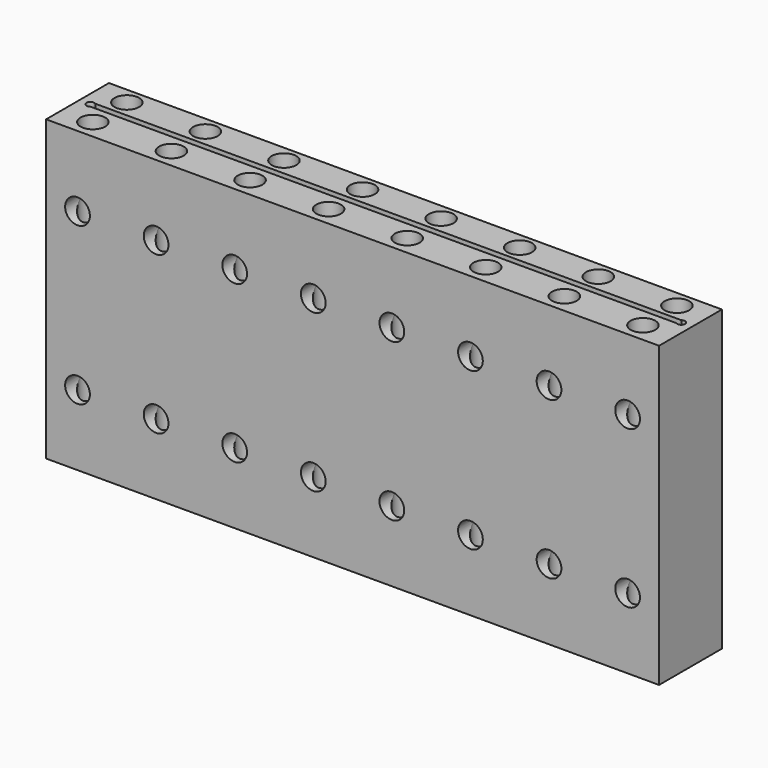
from build123d import *

# Parameters (mm, degrees)
F0_W     = 49.53
F0_H     = 24.13
F0_R     = 0.99949
F1_DEPTH = 6.35
F4_DEPTH = 24.638
F5_R     = 0.99695
F6_DEPTH = 10.16
F8_W     = 78.8969881833
F8_H     = 36.3978110254
F9_DEPTH = 12.065


with BuildPart() as f1:
    # F0 (on Front) → F1 (new body)
    with BuildSketch(Plane.XZ):
        with Locations((24.765, 12.065)):
            Rectangle(F0_W, F0_H)
        with Locations((2.54, 5.715)):
            Circle(F0_R, mode=Mode.SUBTRACT)
        with Locations((8.89, 5.715)):
            Circle(F0_R, mode=Mode.SUBTRACT)
        with Locations((15.24, 5.715)):
            Circle(F0_R, mode=Mode.SUBTRACT)
        with Locations((21.59, 5.715)):
            Circle(F0_R, mode=Mode.SUBTRACT)
        with Locations((27.94, 5.715)):
            Circle(F0_R, mode=Mode.SUBTRACT)
        with Locations((34.29, 5.715)):
            Circle(F0_R, mode=Mode.SUBTRACT)
        with Locations((40.64, 5.715)):
            Circle(F0_R, mode=Mode.SUBTRACT)
        with Locations((46.99, 5.715)):
            Circle(F0_R, mode=Mode.SUBTRACT)
        with Locations((2.54, 18.415)):
            Circle(F0_R, mode=Mode.SUBTRACT)
        with Locations((8.89, 18.415)):
            Circle(F0_R, mode=Mode.SUBTRACT)
        with Locations((15.24, 18.415)):
            Circle(F0_R, mode=Mode.SUBTRACT)
        with Locations((21.59, 18.415)):
            Circle(F0_R, mode=Mode.SUBTRACT)
        with Locations((27.94, 18.415)):
            Circle(F0_R, mode=Mode.SUBTRACT)
        with Locations((34.29, 18.415)):
            Circle(F0_R, mode=Mode.SUBTRACT)
        with Locations((40.64, 18.415)):
            Circle(F0_R, mode=Mode.SUBTRACT)
        with Locations((46.99, 18.415)):
            Circle(F0_R, mode=Mode.SUBTRACT)
    extrude(amount=F1_DEPTH)

    # F3 (on offset) → F4 (cut, through all)
    with BuildSketch(Plane.XY.offset(24.638)):
        with BuildLine():
            ThreePointArc((1.0906868455, -2.7432), (0.575616619, -2.9972), (1.0906868455, -3.2512))
            Line((1.0906868455, -3.2512), (48.4393131545, -3.2512))
            ThreePointArc((48.4393131545, -3.2512), (48.954383381, -2.9972), (48.4393131545, -2.7432))
            Line((48.4393131545, -2.7432), (1.0906868455, -2.7432))
        make_face()
    extrude(amount=-F4_DEPTH, mode=Mode.SUBTRACT)

    # F5 (on offset) → F6 (cut)
    with BuildSketch(Plane.XY.offset(24.638)):
        with Locations((2.54, -1.3716)):
            Circle(F5_R)
        with Locations((8.89, -1.3716)):
            Circle(F5_R)
        with Locations((15.24, -1.3716)):
            Circle(F5_R)
        with Locations((21.59, -1.3716)):
            Circle(F5_R)
        with Locations((27.94, -1.3716)):
            Circle(F5_R)
        with Locations((34.29, -1.3716)):
            Circle(F5_R)
        with Locations((40.64, -1.3716)):
            Circle(F5_R)
        with Locations((46.99, -1.3716)):
            Circle(F5_R)
        with Locations((46.99, -4.8006)):
            Circle(F5_R)
        with Locations((40.64, -4.8006)):
            Circle(F5_R)
        with Locations((34.29, -4.8006)):
            Circle(F5_R)
        with Locations((27.94, -4.8006)):
            Circle(F5_R)
        with Locations((21.59, -4.8006)):
            Circle(F5_R)
        with Locations((15.24, -4.8006)):
            Circle(F5_R)
        with Locations((8.89, -4.8006)):
            Circle(F5_R)
        with Locations((2.54, -4.8006)):
            Circle(F5_R)
    extrude(amount=-F6_DEPTH, mode=Mode.SUBTRACT)

    # F8 (on Top) → F9 (cut)
    with BuildSketch(Plane.XY):
        with Locations((26.7197769135, -0.8415747434)):
            Rectangle(F8_W, F8_H)
    extrude(amount=F9_DEPTH, mode=Mode.SUBTRACT)

    # F10: F1 across plane


with BuildPart() as f1_1:
    add(f1.part)
    add(f1.part.mirror(Plane(origin=(24.765, -3.2009183496, 12.065), x_dir=(1, 0, 0), z_dir=(0, 0, 1))))


solid = f1_1.part
